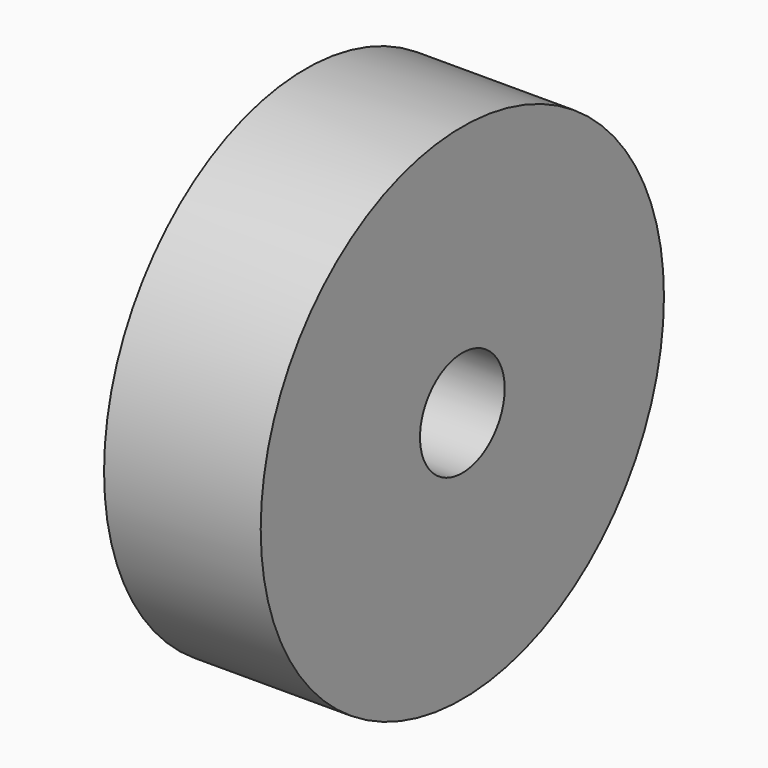
from build123d import *

# Parameters (mm, degrees)
F0_R     = 30.2387
F0_R_2   = 6.35
F1_DEPTH = 18.796


with BuildPart() as f1:
    # F0 (on Right) → F1 (new body)
    with BuildSketch(Plane.YZ):
        Circle(F0_R)
        Circle(F0_R_2, mode=Mode.SUBTRACT)
        Circle(F0_R)
        Circle(F0_R_2, mode=Mode.SUBTRACT)
    extrude(amount=F1_DEPTH)


solid = f1.part
